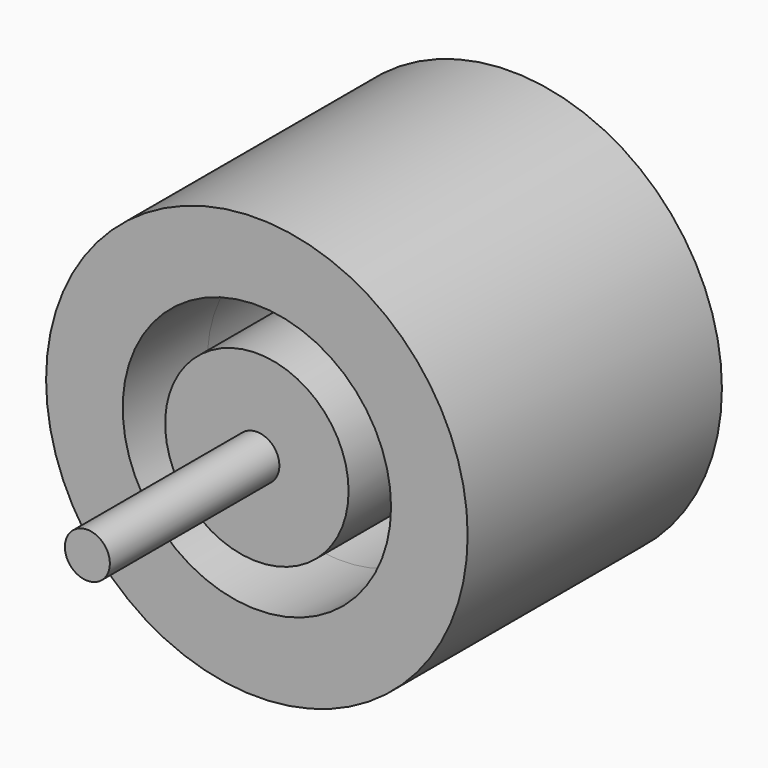
from build123d import *

# Parameters (mm, degrees)
F0_R     = 50.5391757453
F0_R_2   = 32.1706102907
F1_DEPTH = 25.4
F0_R_3   = 5.3950374824
F2_DEPTH = 50.8
F3_DEPTH = 50.8
F4_R     = 21.9853928035
F5_DEPTH = 25.4


with BuildPart() as f1:
    # F0 (on Front) → F1 (new body)
    with BuildSketch(Plane.XZ):
        Circle(F0_R)
        Circle(F0_R_2, mode=Mode.SUBTRACT)
    extrude(amount=F1_DEPTH)

    # F3 (add): a face of the model
    f3_faces = [f1.faces().sort_by_distance(p)[0] for p in [
        (-49.1097119899, 0, 0),
    ]]
    extrude(f3_faces, amount=F3_DEPTH)


with BuildPart() as f1b:
    # F0 (on Front) → F1, piece 2 (new body)
    with BuildSketch(Plane.XZ):
        Circle(F0_R_3)
    extrude(amount=F1_DEPTH)

    # F2 (add): a face of the model
    f2_faces = [f1b.faces().sort_by_distance(p)[0] for p in [
        (0, -25.4, 0),
    ]]
    extrude(f2_faces, amount=F2_DEPTH)

    # F4 (on Front) → F5 (join)
    with BuildSketch(Plane.XZ):
        Circle(F4_R)
    extrude(amount=F5_DEPTH)


solid = Compound([f1.part, f1b.part])
